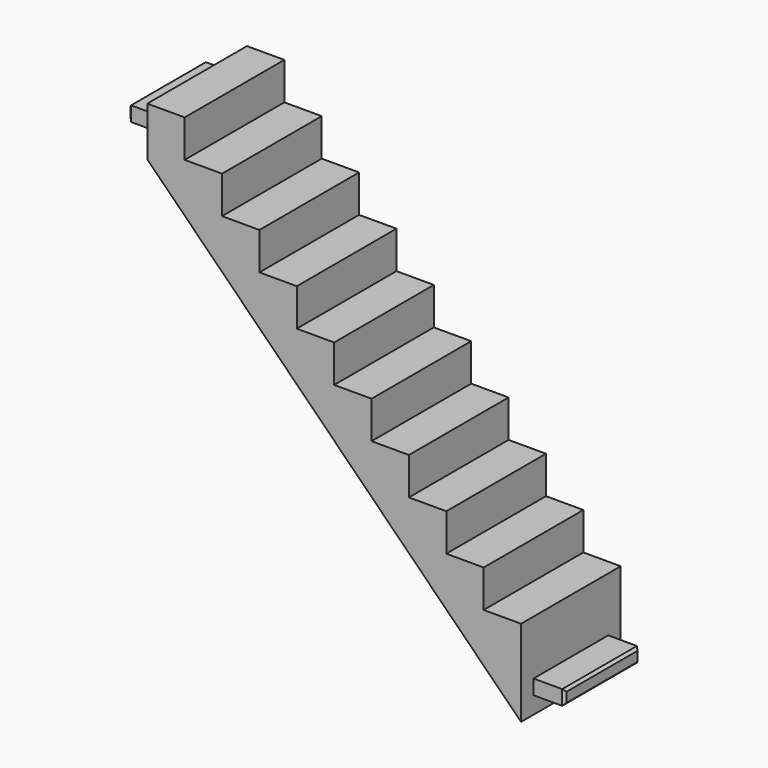
from build123d import *

# Parameters (mm, degrees)
F1_DEPTH = 12.7
F2_W     = 19.05
F2_H     = 3
F3_DEPTH = 6.35
F4_W     = 19.05
F4_H     = 3
F5_DEPTH = 6.35
F6_SIZE  = 0.5


with BuildPart() as f1:
    # F0 (on Front) → F1 (new body, symmetric)
    with BuildSketch(Plane.XZ):
        Polygon((0, -10), (0, 0), (0, 7.62), (-7.62, 7.62), (-7.62, 15.24), (-15.24, 15.24), (-15.24, 22.86), (-22.86, 22.86), (-22.86, 30.48), (-30.48, 30.48), (-30.48, 38.1), (-38.1, 38.1), (-38.1, 45.72), (-45.72, 45.72), (-45.72, 53.34), (-53.34, 53.34), (-53.34, 60.96), (-60.96, 60.96), (-60.96, 68.58), (-68.58, 68.58), (-68.58, 76.2), (-76.2, 76.2), (-76.2, 66.2), align=None)
    extrude(amount=F1_DEPTH, both=True)

    # F2 (on face) → F3 (join)
    with BuildSketch(Plane.YZ):
        with Locations((0, -5)):
            Rectangle(F2_W, F2_H)
    extrude(amount=F3_DEPTH)

    # F4 (on face) → F5 (join)
    with BuildSketch(Plane(origin=(-76.2, 0, 0), x_dir=(0, -1, 0), z_dir=(-1, 0, 0))):
        with Locations((0, 71.2)):
            Rectangle(F4_W, F4_H)
    extrude(amount=F5_DEPTH)

    # F6
    f6_edges = [f1.edges().sort_by_distance(p)[0] for p in [
        (-82.55, 0, 72.7),
        (-82.55, 9.525, 71.2),
        (-82.55, 0, 69.7),
        (-82.55, -9.525, 71.2),
        (6.35, 9.525, -5),
        (6.35, 0, -3.5),
        (6.35, -9.525, -5),
        (6.35, 0, -6.5),
    ]]
    chamfer(f6_edges, length=F6_SIZE)


solid = f1.part
